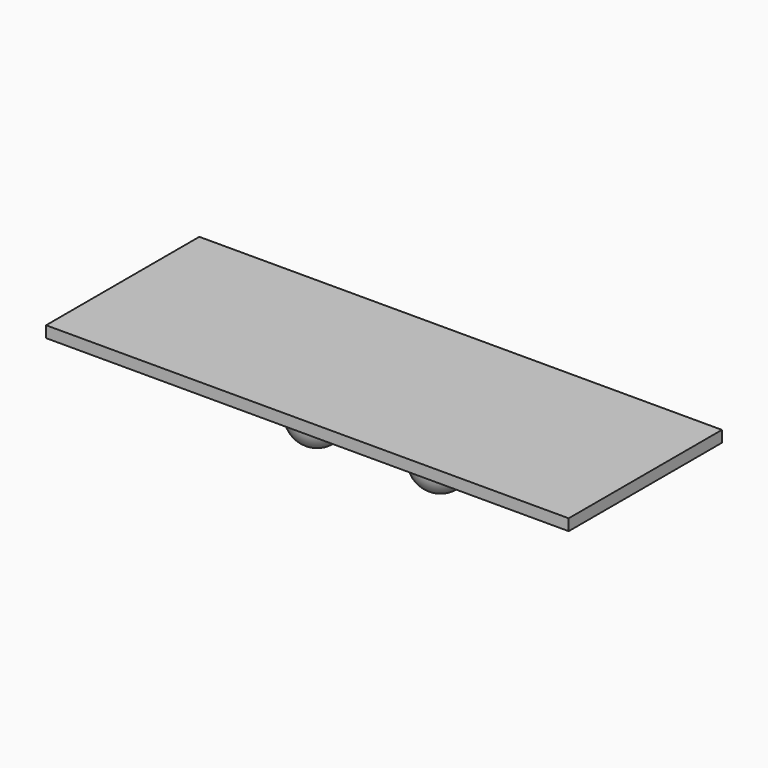
from build123d import *

# Parameters (mm, degrees)
F0_W      = 88
F0_H      = 37
F1_DEPTH  = 1.75
F2_W      = 80.5
F2_H      = 29.5
F3_DEPTH  = 1.5
F4_R      = 4
F5_DEPTH  = 10
F6_R      = 4
F7_R      = 1.35
F8_DEPTH  = 88.001
F9_R      = 3
F10_DEPTH = 25


with BuildPart() as f1:
    # F0 (on Top) → F1 (new body)
    with BuildSketch(Plane.XY):
        with Locations((-44, 18.5)):
            Rectangle(F0_W, F0_H)
    extrude(amount=F1_DEPTH)

    # F2 (on face) → F3 (join)
    with BuildSketch(Plane.XY.offset(1.75)):
        with Locations((-44, 18.5)):
            Rectangle(F2_W, F2_H)
    extrude(amount=F3_DEPTH)

    # F4 (on face) → F5 (join)
    with BuildSketch(Plane(origin=(0, 0, 0), x_dir=(1, 0, 0), z_dir=(0, 0, -1))):
        with Locations((-53.5, -17.5)):
            Circle(F4_R)
        with Locations((-34.5, -17.5)):
            Circle(F4_R)
    extrude(amount=F5_DEPTH)

    # F6
    f6_edges = [f1.edges().sort_by_distance(p)[0] for p in [
        (-57.5, 17.5, -10),
        (-38.5, 17.5, -10),
    ]]
    fillet(f6_edges, radius=F6_R)

    # F7 (on face) → F8 (cut, through all)
    with BuildSketch(Plane.YZ):
        with Locations((17.5, -3.85)):
            Circle(F7_R)
    extrude(amount=-F8_DEPTH, mode=Mode.SUBTRACT)

    # F9
    f9_edges = [f1.edges().sort_by_distance(p)[0] for p in [
        (-88, 0, 0.875),
        (-88, 37, 0.875),
        (0, 37, 0.875),
        (0, 0, 0.875),
    ]]
    fillet(f9_edges, radius=F9_R)

    # F2 (on face) → F10 (intersect)
    with BuildSketch(Plane.XY.offset(1.75)):
        with Locations((-44, 18.5)):
            Rectangle(F2_W, F2_H)
    extrude(amount=-F10_DEPTH, mode=Mode.INTERSECT)


solid = f1.part
